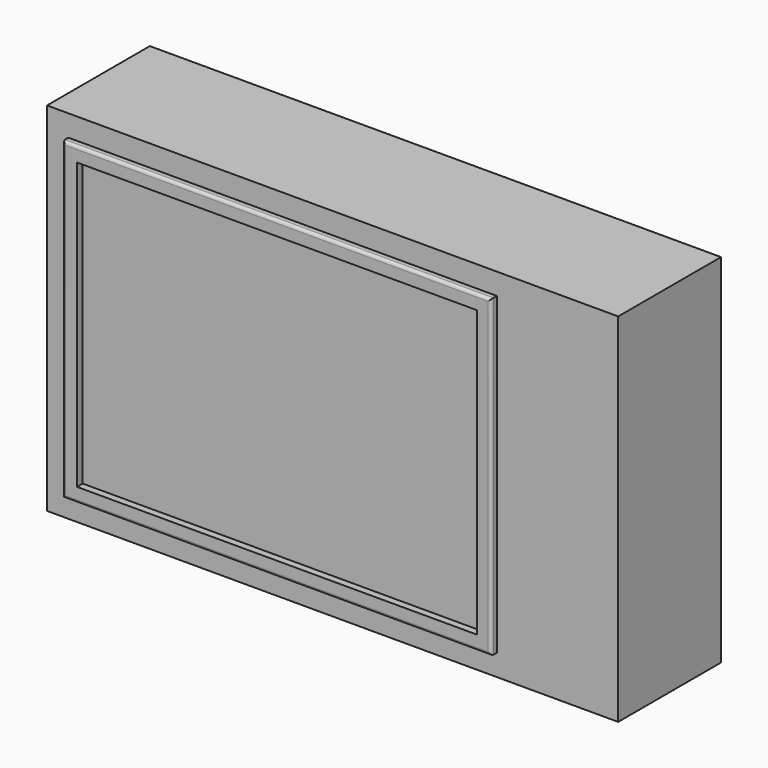
from build123d import *

# Parameters (mm, degrees)
F0_W     = 76.2
F0_H     = 55.88
F0_W_2   = 71.12
F0_H_2   = 50.8
F1_DEPTH = 1.27
F2_R     = 0.508
F0_W_3   = 101.6
F0_H_3   = 63.5
F3_DEPTH = 22.86
F4_W     = 76.2
F4_H     = 55.5743090808
F5_DEPTH = 2.54
F6_W     = 27.94
F6_H     = 17.78
F7_DEPTH = 53.34


with BuildPart() as f1:
    # F0 (on Front) → F1 (new body)
    with BuildSketch(Plane.XZ):
        with Locations((-9.550315156, -5.7773459782)):
            Rectangle(F0_W, F0_H)
        with Locations((-9.550315156, -5.7773459782)):
            Rectangle(F0_W_2, F0_H_2, mode=Mode.SUBTRACT)
    extrude(amount=F1_DEPTH)

    # F2
    f2_edges = [f1.edges().sort_by_distance(p)[0] for p in [
        (28.549685, -1.27, -5.777346),
        (-9.550315, -1.27, 22.162654),
        (-9.550315, -1.27, -33.717346),
        (-47.650315, -1.27, -5.777346),
    ]]
    fillet(f2_edges, radius=F2_R)


with BuildPart() as f3:
    # F0 (on Front) → F3 (new body)
    with BuildSketch(Plane.XZ):
        with Locations((-0.660315156, -5.7773459782)):
            Rectangle(F0_W_3, F0_H_3)
        with Locations((-9.550315156, -5.7773459782)):
            Rectangle(F0_W, F0_H, mode=Mode.SUBTRACT)
    extrude(amount=-F3_DEPTH)

    # F6 (on face) → F7 (cut)
    with BuildSketch(Plane(origin=(0, 0, -37.5273459782), x_dir=(1, 0, 0), z_dir=(0, 0, -1))):
        with Locations((28.8940501184, -11.43)):
            Rectangle(F6_W, F6_H)
    extrude(amount=-F7_DEPTH, mode=Mode.SUBTRACT)


with BuildPart() as f5:
    # F4 (on face) → F5 (new body)
    with BuildSketch(Plane.XZ):
        with Locations((-9.550315156, -5.8000367135)):
            Rectangle(F4_W, F4_H)
    extrude(amount=-F5_DEPTH)


solid = Compound([f1.part, f3.part, f5.part])
